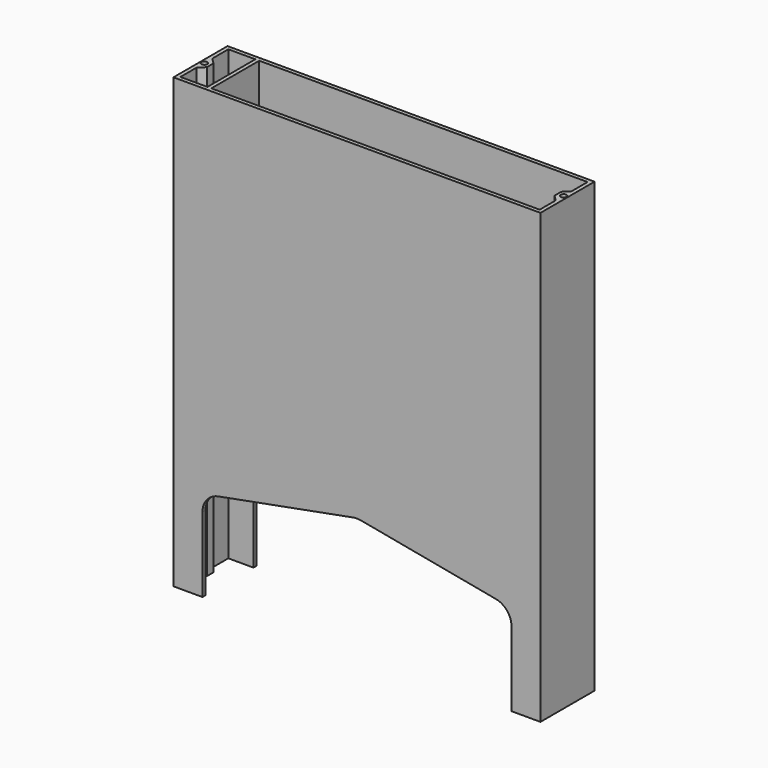
from build123d import *

# Parameters (mm, degrees)
F0_W     = 190
F0_H     = 35
F0_R     = 1.5
F1_DEPTH = 232
F2_W     = 2
F2_H     = 110
F2_H_2   = 2
F2_W_2   = 28
F3_DEPTH = 33
F4_W     = 160
F4_H     = 107
F5_DEPTH = 5
F6_W     = 160
F6_H     = 47
F7_DEPTH = 5
F8_R     = 10


with BuildPart() as f1:
    # F0 (on Top) → F1 (new body)
    with BuildSketch(Plane.XY):
        with Locations((95, 17.5)):
            Rectangle(F0_W, F0_H)
        with Locations((2, 17.5)):
            Circle(F0_R, mode=Mode.SUBTRACT)
        Polygon((188, 2), (2, 2), (2, 12.3786796564), (5, 15.3786796564), (5, 19.6213203436), (2, 22.6213203436), (2, 33), (188, 33), (188, 22.6213203436), (185, 19.6213203436), (185, 15.3786796564), (188, 12.3786796564), align=None, mode=Mode.SUBTRACT)
        with Locations((188, 17.5)):
            Circle(F0_R, mode=Mode.SUBTRACT)
    extrude(amount=F1_DEPTH)

    # F2 (on face) → F3 (join)
    with BuildSketch(Plane.XZ):
        with Locations((17, 177)):
            Rectangle(F2_W, F2_H)
        with Locations((17, 121)):
            Rectangle(F2_W, F2_H_2)
        with Locations((32, 121)):
            Rectangle(F2_W_2, F2_H_2)
    extrude(amount=-F3_DEPTH)

    # F4 (on face) → F5 (cut)
    with BuildSketch(Plane(origin=(0, 35, 0), x_dir=(-1, 0, 0), z_dir=(0, 1, 0))):
        with Locations((-95, 53.5)):
            Rectangle(F4_W, F4_H)
        Polygon((-175, 107), (-15, 107), (-95, 122), align=None)
    extrude(amount=-F5_DEPTH, mode=Mode.SUBTRACT)

    # F6 (on face) → F7 (cut)
    with BuildSketch(Plane.XZ):
        Polygon((95, 62), (15, 47), (175, 47), align=None)
        with Locations((95, 23.5)):
            Rectangle(F6_W, F6_H)
    extrude(amount=-F7_DEPTH, mode=Mode.SUBTRACT)

    # F8
    f8_edges = [f1.edges().sort_by_distance(p)[0] for p in [
        (175, 1, 47),
        (175, 34, 107),
        (15, 34, 107),
        (15, 1, 47),
        (95, 34, 122),
        (95, 1, 62),
    ]]
    fillet(f8_edges, radius=F8_R)


solid = f1.part
